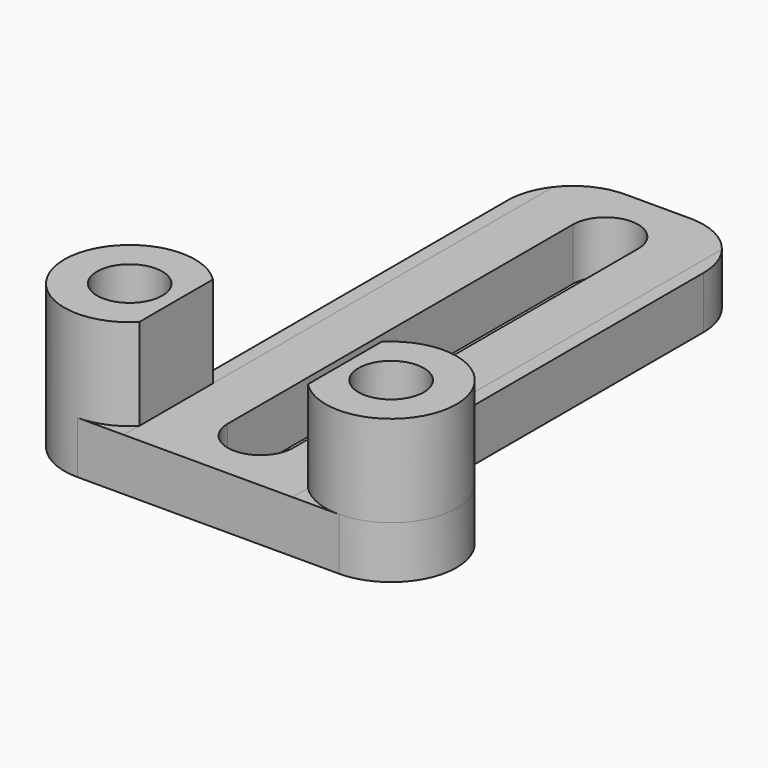
from build123d import *

# Parameters (mm, degrees)
SKETCH_R          = 2.5
PAD_DEPTH         = 4
SKETCH001_R       = 5
SKETCH001_R_2     = 2.5
PAD001_DEPTH      = 7
FILLET_R          = 5
SKETCH002_W       = 12.9
SKETCH002_H       = 8.550953
POCKET_DEPTH      = 38.001
POCKET_DEPTH_BACK = 5.001


with BuildPart() as part:
    # Sketch → Pad (new body)
    with BuildSketch(Plane.XY):
        with BuildLine():
            Line((-10, -5), (10, -5))
            ThreePointArc((10, -5), (15, 0.000362), (9.999276, 5))
            Line((7.5, 5), (9.999276, 5))
            Line((7.5, 38), (7.5, 5))
            Line((-7.5, 38), (7.5, 38))
            Line((-7.5, 38), (-7.5, 5))
            Line((-7.5, 5), (-9.999276, 5))
            ThreePointArc((-9.999276, 5), (-15, 0.000362), (-10, -5))
        make_face()
        with Locations((-10, 0)):
            Circle(SKETCH_R, mode=Mode.SUBTRACT)
        with Locations((10, 0)):
            Circle(SKETCH_R, mode=Mode.SUBTRACT)
        with BuildLine():
            ThreePointArc((2.5, 33), (0, 35.5), (-2.5, 33))
            Line((-2.5, 33), (-2.5, 0))
            ThreePointArc((-2.5, 0), (0, -2.5), (2.5, 0))
            Line((2.5, 33), (2.5, 0))
        make_face(mode=Mode.SUBTRACT)
    extrude(amount=PAD_DEPTH)

    # Sketch001 (on Face16 of Pad) → Pad001 (join)
    with BuildSketch(Plane.XY.offset(4)):
        with Locations((10, 0)):
            Circle(SKETCH001_R)
        with Locations((10, 0)):
            Circle(SKETCH001_R_2, mode=Mode.SUBTRACT)
        with Locations((-10, 0)):
            Circle(SKETCH001_R)
        with Locations((-10, 0)):
            Circle(SKETCH001_R_2, mode=Mode.SUBTRACT)
    extrude(amount=PAD001_DEPTH)

    # Fillet
    fillet_edges = [part.edges().sort_by_distance(p)[0] for p in [
        (-7.5, 38, 2),
        (7.5, 38, 2),
    ]]
    fillet(fillet_edges, radius=FILLET_R)

    # Sketch002 → Pocket (cut, two sides)
    with BuildSketch(Plane.XZ) as pocket_sk:
        with Locations((0, 8.275476)):
            Rectangle(SKETCH002_W, SKETCH002_H)
    extrude(amount=-POCKET_DEPTH, mode=Mode.SUBTRACT)
    extrude(pocket_sk.sketch, amount=POCKET_DEPTH_BACK, mode=Mode.SUBTRACT)


solid = part.part
